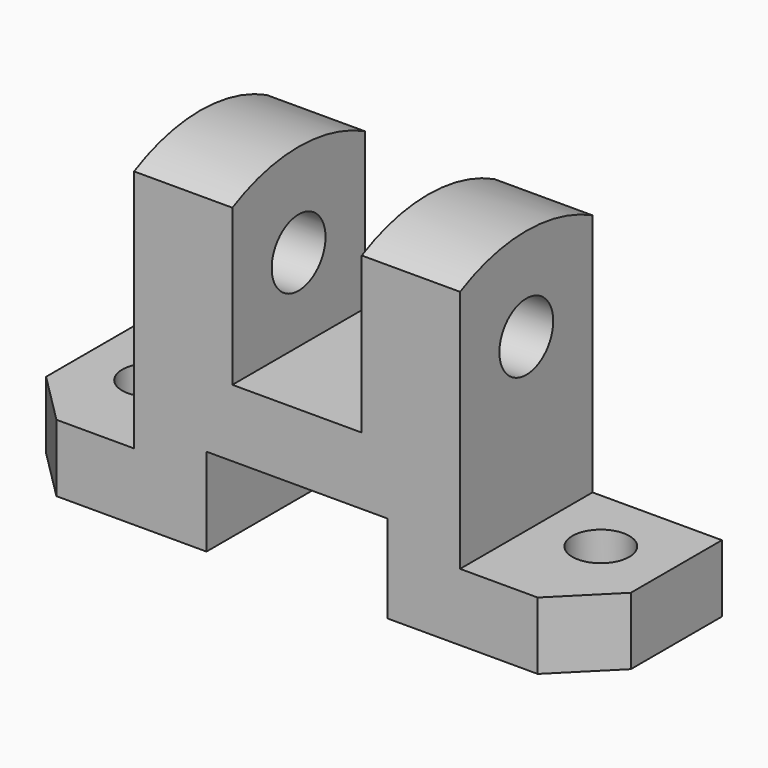
from build123d import *

# Parameters (mm, degrees)
F1_DEPTH = 113
F2_W     = 25
F2_H     = 151.750604
F2_H_2   = 125.694361
F2_W_2   = 35
F2_H_3   = 17
F3_DEPTH = 32.001
F4_SIZE  = 10
F5_R     = 5.5
F6_DEPTH = 25
F7_R     = 6.5
F8_DEPTH = 88.001


with BuildPart() as f1:
    # F0 (on Right) → F1 (new body)
    with BuildSketch(Plane.YZ):
        with BuildLine():
            Line((-16, 0), (16, 0))
            Line((16, 0), (16, 60.128765))
            ThreePointArc((16, 60.128765), (0, 64), (-16, 60.128765))
            Line((-16, 60.128765), (-16, 0))
        make_face()
    extrude(amount=F1_DEPTH)

    # F2 (on face) → F3 (cut, through all)
    with BuildSketch(Plane.XZ.offset(16)):
        with Locations((56.5, 105.875302)):
            Rectangle(F2_W, F2_H)
        with Locations((100.5, 75.84718)):
            Rectangle(F2_W, F2_H_2)
        with Locations((12.5, 75.84718)):
            Rectangle(F2_W, F2_H_2)
        with Locations((56.5, 8.5)):
            Rectangle(F2_W_2, F2_H_3)
    extrude(amount=-F3_DEPTH, mode=Mode.SUBTRACT)

    # F4
    f4_edges = [f1.edges().sort_by_distance(p)[0] for p in [
        (0, -16, 6.5),
        (113, -16, 6.5),
    ]]
    chamfer(f4_edges, length=F4_SIZE)

    # F5 (on face) → F6 (cut)
    with BuildSketch(Plane.XY.offset(13)):
        with Locations((100, 3)):
            Circle(F5_R)
        with Locations((13, 3)):
            Circle(F5_R)
    extrude(amount=-F6_DEPTH, mode=Mode.SUBTRACT)

    # F7 (on face) → F8 (cut, through all)
    with BuildSketch(Plane.YZ.offset(88)):
        with Locations((0, 46)):
            Circle(F7_R)
    extrude(amount=-F8_DEPTH, mode=Mode.SUBTRACT)


solid = f1.part
